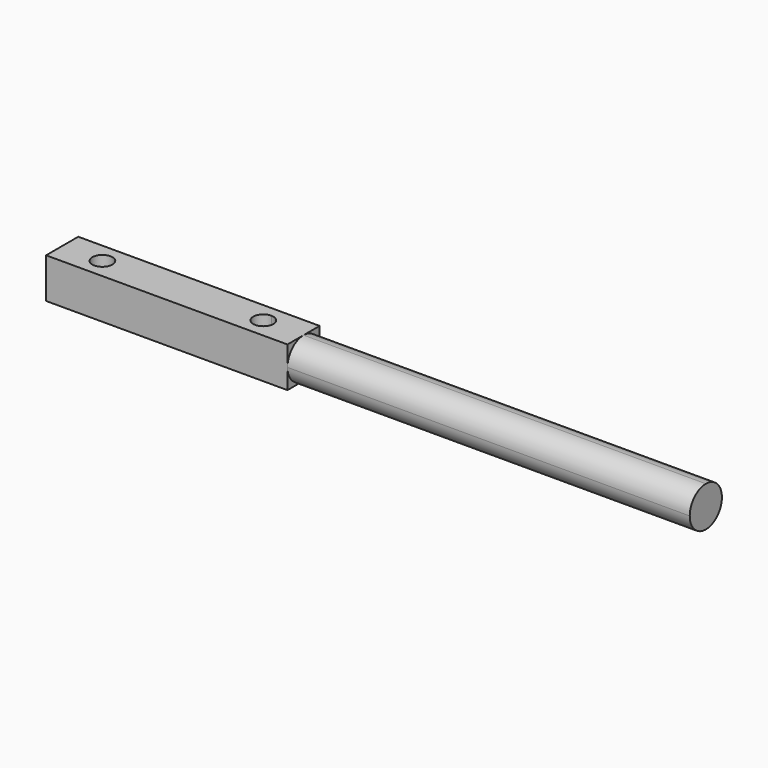
from build123d import *

# Parameters (mm, degrees)
F0_R     = 3.175
F1_DEPTH = 6.35
F3_DEPTH = 127


with BuildPart() as f1:
    # F0 (on Top) → F1 (new body, symmetric)
    with BuildSketch(Plane.XY):
        Polygon((0, -6.35), (0, 0), (0, 6.35), (-12.7, 6.35), (-76.2, 6.35), (-76.2, -6.35), align=None)
        with Locations((-63.5, 0)):
            Circle(F0_R, mode=Mode.SUBTRACT)
        with BuildLine():
            ThreePointArc((-9.525, 0), (-14.945064, -2.245064), (-12.7, 3.175))
            ThreePointArc((-12.7, 3.175), (-10.454936, 2.245064), (-9.525, 0))
        make_face(mode=Mode.SUBTRACT)
    extrude(amount=F1_DEPTH, both=True)

    # F2 (on face) → F3 (join)
    with BuildSketch(Plane.YZ):
        with BuildLine():
            ThreePointArc((0, -6.35), (4.490128, -4.490128), (6.35, 0))
            ThreePointArc((6.35, 0), (4.490128, 4.490128), (0, 6.35))
            ThreePointArc((0, 6.35), (-4.490128, 4.490128), (-6.35, 0))
            ThreePointArc((-6.35, 0), (-4.490128, -4.490128), (0, -6.35))
        make_face()
    extrude(amount=F3_DEPTH)


solid = f1.part
